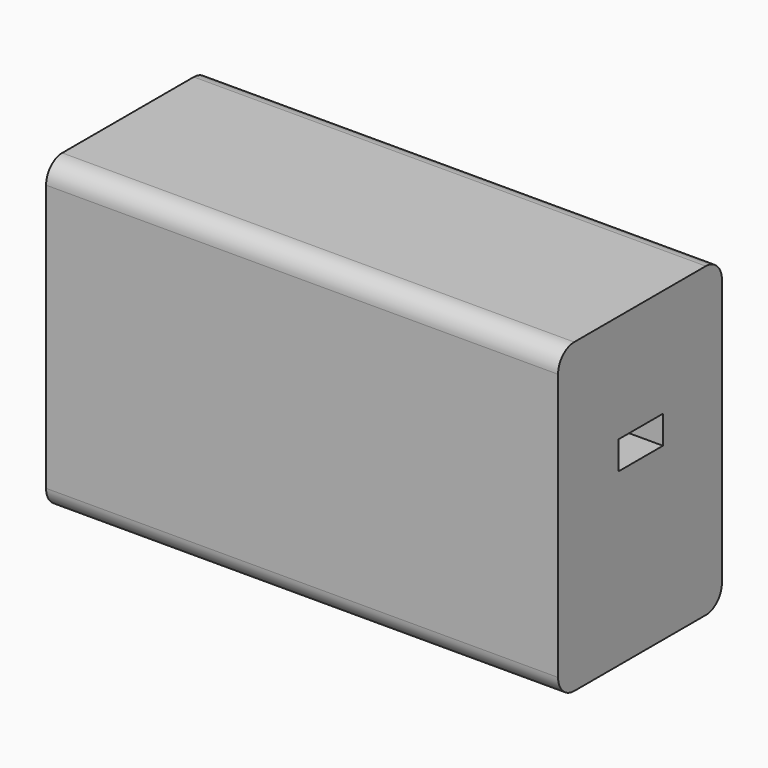
from build123d import *

# Parameters (mm, degrees)
F0_W     = 127
F0_H     = 76.2
F1_DEPTH = 50.8
F2_R     = 5
F3_W     = 13.8
F3_H     = 7
F4_DEPTH = 16.4


with BuildPart() as f1:
    # F0 (on Front) → F1 (new body)
    with BuildSketch(Plane.XZ):
        Rectangle(F0_W, F0_H)
    extrude(amount=F1_DEPTH)

    # F2
    f2_edges = [f1.edges().sort_by_distance(p)[0] for p in [
        (0, -50.8, 38.1),
        (0, 0, 38.1),
        (0, 0, -38.1),
        (0, -50.8, -38.1),
    ]]
    fillet(f2_edges, radius=F2_R)

    # F3 (on face) → F4 (cut)
    with BuildSketch(Plane.YZ.offset(63.5)):
        with Locations((-25.183004, 7.778266)):
            Rectangle(F3_W, F3_H)
    extrude(amount=-F4_DEPTH, mode=Mode.SUBTRACT)


solid = f1.part
